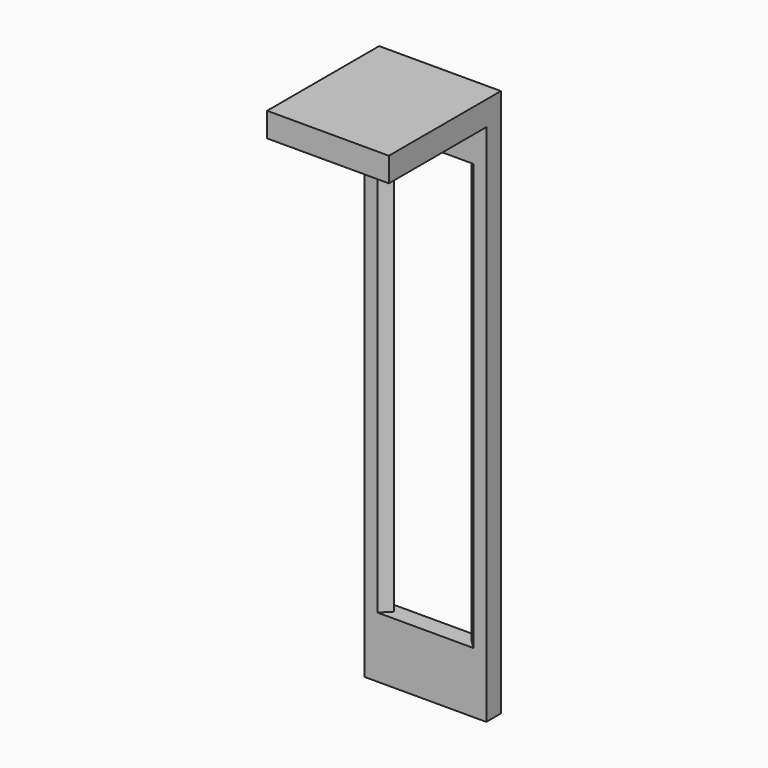
from build123d import *

# Parameters (mm, degrees)
SKETCH010_W  = 20
SKETCH010_H  = 3
PAD008_DEPTH = 10
PAD009_DEPTH = 70
SKETCH012_W  = 20
SKETCH012_H  = 3
PAD010_DEPTH = 10
SKETCH014_W  = 20
SKETCH014_H  = 4
PAD012_DEPTH = 20
SKETCH018_R  = 9
POCKET_DEPTH = 1


with BuildPart() as part:
    # Sketch010 (on XY_Plane of Origin012) → Pad008 (new body)
    with BuildSketch(Plane.XY):
        Rectangle(SKETCH010_W, SKETCH010_H)
    extrude(amount=PAD008_DEPTH)

    # Sketch011 (on Face5 of Pad008) → Pad009 (join)
    with BuildSketch(Plane(origin=(0, 0, 0), x_dir=(1, 0, 0), z_dir=(0, 0, -1))):
        Polygon((-7.87868, 1.5), (-6.37868, 0), (-7.87868, -1.5), (-10, -1.5), (-10, 1.5), align=None)
        Polygon((7.87868, 1.5), (6.37868, 0), (7.87868, -1.5), (10, -1.5), (10, 1.5), align=None)
    extrude(amount=PAD009_DEPTH)

    # Sketch012 (on Face7 of Pad009) → Pad010 (join)
    with BuildSketch(Plane(origin=(0, 0, -70), x_dir=(1, 0, 0), z_dir=(0, 0, -1))):
        Rectangle(SKETCH012_W, SKETCH012_H)
    extrude(amount=PAD010_DEPTH)

    # Sketch014 (on Face10 of Pad010) → Pad012 (join)
    with BuildSketch(Plane.XZ.offset(1.5)):
        with Locations((0, 8)):
            Rectangle(SKETCH014_W, SKETCH014_H)
    extrude(amount=PAD012_DEPTH)

    # Sketch018 (on Face4 of Pad012) → Pocket (cut)
    with BuildSketch(Plane(origin=(0, 0, 6), x_dir=(1, 0, 0), z_dir=(0, 0, -1))):
        with Locations((0, 11.5)):
            Circle(SKETCH018_R)
    extrude(amount=-POCKET_DEPTH, mode=Mode.SUBTRACT)


solid = part.part
